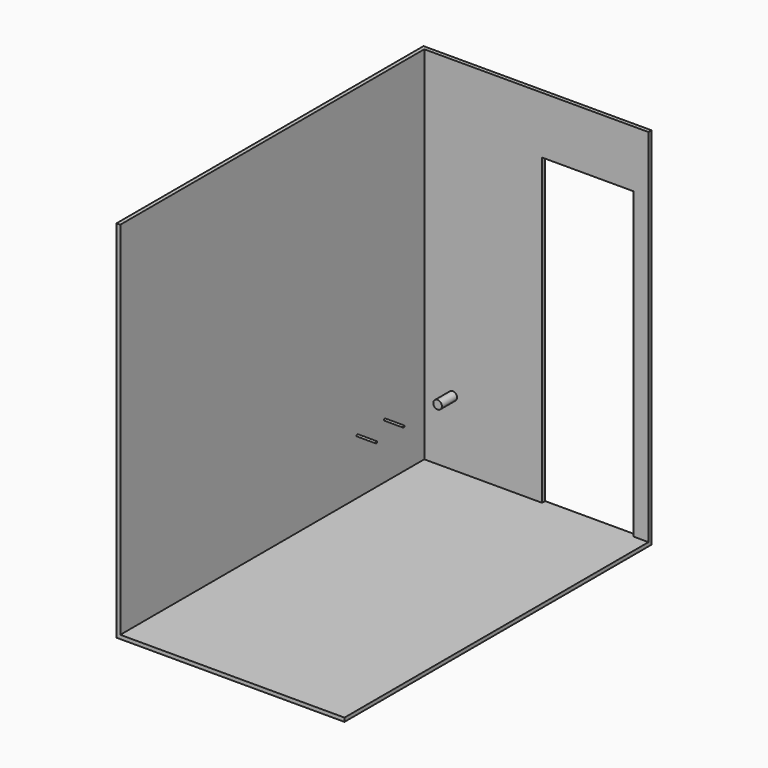
from build123d import *

# Parameters (mm, degrees)
F0_W      = 1498.6
F0_H      = 2540
F1_DEPTH  = 25.4
F2_W      = 2540
F2_H      = 2438.4
F3_DEPTH  = 25.4
F4_R      = 6.35
F5_DEPTH  = 127
F6_W      = 1524
F6_H      = 2438.4
F7_DEPTH  = 25.4
F8_R      = 28.575
F9_DEPTH  = 127
F10_W     = 609.6
F10_H     = 2032
F11_DEPTH = 38.1


with BuildPart() as f1:
    # F0 (on Top) → F1 (new body)
    with BuildSketch(Plane.XY):
        with Locations((-2.194331, 710.051532)):
            Rectangle(F0_W, F0_H)
    extrude(amount=F1_DEPTH)

    # F2 (on face) → F3 (join)
    with BuildSketch(Plane(origin=(-751.494331, 0, 0), x_dir=(0, -1, 0), z_dir=(-1, 0, 0))):
        with Locations((-710.051532, 1219.2)):
            Rectangle(F2_W, F2_H)
    extrude(amount=F3_DEPTH)

    # F4 (on face) → F5 (join)
    with BuildSketch(Plane.YZ.offset(-751.494331)):
        with Locations((1649.851532, 393.7)):
            Circle(F4_R)
        with Locations((1421.251532, 393.7)):
            Circle(F4_R)
    extrude(amount=F5_DEPTH)

    # F6 (on face) → F7 (join)
    with BuildSketch(Plane(origin=(0, 1980.051532, 0), x_dir=(-1, 0, 0), z_dir=(0, 1, 0))):
        with Locations((14.894331, 1219.2)):
            Rectangle(F6_W, F6_H)
    extrude(amount=F7_DEPTH)

    # F8 (on face) → F9 (join)
    with BuildSketch(Plane.XZ.offset(-1980.051532)):
        with Locations((-560.994331, 460.375)):
            Circle(F8_R)
    extrude(amount=F9_DEPTH)

    # F10 (on face) → F11 (cut, symmetric)
    with BuildSketch(Plane.XZ.offset(-1980.051532)):
        with Locations((340.705669, 1041.4)):
            Rectangle(F10_W, F10_H)
    extrude(amount=F11_DEPTH, both=True, mode=Mode.SUBTRACT)


solid = f1.part
